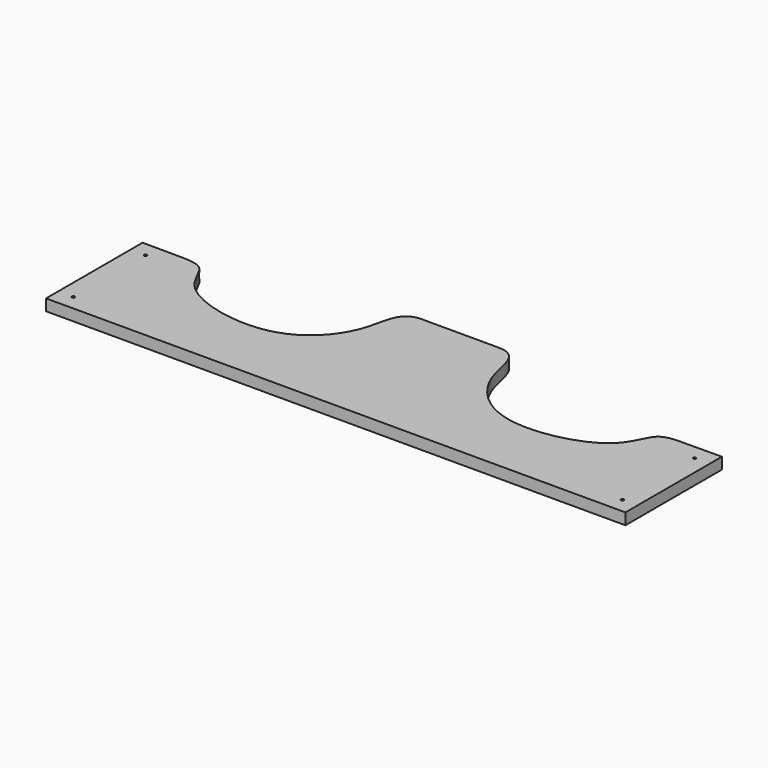
from build123d import *

# Parameters (mm, degrees)
F0_R     = 1.5
F1_DEPTH = 12


with BuildPart() as f1:
    # F0 (on Top) → F1 (new body)
    with BuildSketch(Plane.XY):
        with BuildLine():
            Line((-305, 127), (-305, 0))
            Line((-305, 0), (305, 0))
            Line((305, 0), (305, 127))
            add(Edge.make_bspline(
                [(40, 164), (63.0032219505, 164), (59.7208262802, 117.1093754099), (116.4104909199, 52.333754949), (228.565359316, 78.7702971638), (236.7929925968, 132.7095947336), (266.2882495892, 125.576759851), (305, 127)],
                knots=[0, 0, 0, 0, 0.1748138419, 0.3960921326, 0.6453885895, 0.798455359, 1, 1, 1, 1], degree=3))
            Line((40, 164), (-40, 164))
            add(Edge.make_bspline(
                [(-40, 164), (-63.0032219505, 164), (-59.7208262802, 117.1093754099), (-116.4104909199, 52.333754949), (-228.565359316, 78.7702971638), (-236.7929925968, 132.7095947336), (-266.2882495892, 125.576759851), (-305, 127)],
                knots=[0, 0, 0, 0, 0.1748138419, 0.3960921326, 0.6453885895, 0.798455359, 1, 1, 1, 1], degree=3))
        make_face()
        with Locations((-289, 16)):
            Circle(F0_R, mode=Mode.SUBTRACT)
        with Locations((289, 16)):
            Circle(F0_R, mode=Mode.SUBTRACT)
        with Locations((-289, 111)):
            Circle(F0_R, mode=Mode.SUBTRACT)
        with Locations((289, 111)):
            Circle(F0_R, mode=Mode.SUBTRACT)
    extrude(amount=F1_DEPTH)


solid = f1.part
